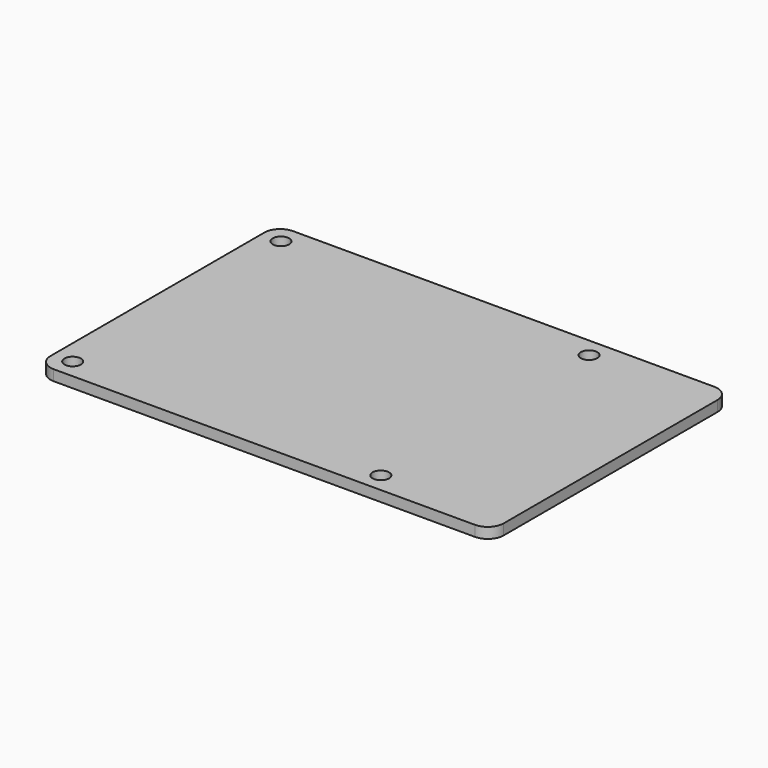
from build123d import *

# Parameters (mm, degrees)
F0_W     = 85.3
F0_H     = 56.3
F0_R     = 1.55
F1_DEPTH = 2
F2_R     = 3


with BuildPart() as f1:
    # F0 (on Top) → F1 (new body)
    with BuildSketch(Plane.XY):
        Rectangle(F0_W, F0_H)
        with Locations((-39, -24.5)):
            Circle(F0_R, mode=Mode.SUBTRACT)
        with Locations((19, -24.5)):
            Circle(F0_R, mode=Mode.SUBTRACT)
        with Locations((-39, 24.5)):
            Circle(F0_R, mode=Mode.SUBTRACT)
        with Locations((19, 24.5)):
            Circle(F0_R, mode=Mode.SUBTRACT)
    extrude(amount=F1_DEPTH)

    # F2
    f2_edges = [f1.edges().sort_by_distance(p)[0] for p in [
        (-42.65, 28.15, 1),
        (-42.65, -28.15, 1),
        (42.65, 28.15, 1),
        (42.65, -28.15, 1),
    ]]
    fillet(f2_edges, radius=F2_R)


solid = f1.part
